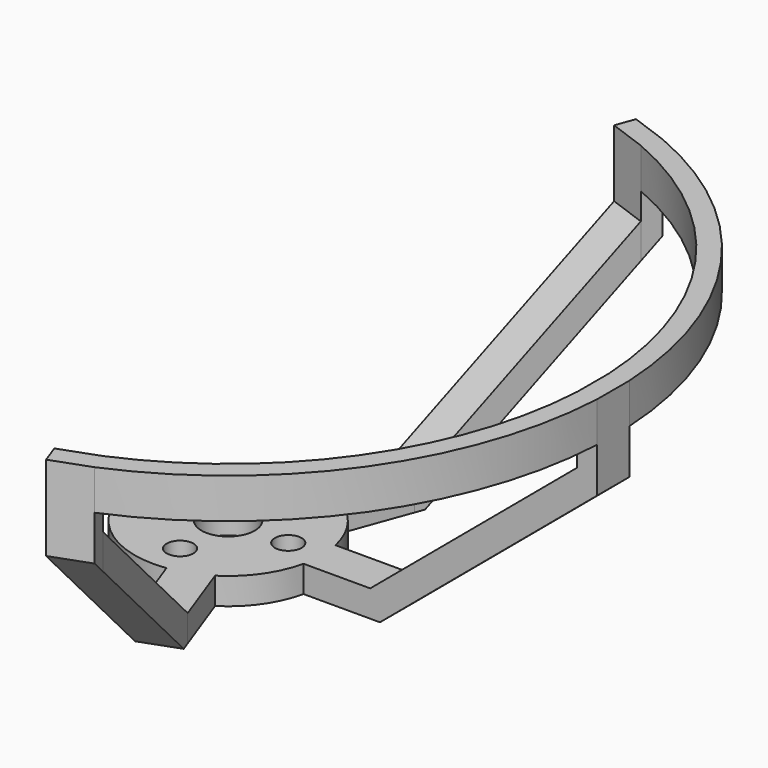
from build123d import *

# Parameters (mm, degrees)
F0_R     = 1
F0_R_2   = 2
F1_DEPTH = 2
F2_START = 17
F2_DEPTH = 3
F3_DEPTH = 20
F5_DEPTH = 3
F8_DEPTH = 3
F9_DEPTH = 3


with BuildPart() as f1:
    # F0 (on Top) → F1 (new body)
    with BuildSketch(Plane.XY):
        with BuildLine():
            Line((0.9289886274, 6.9380818769), (3.7480664897, 5.9120214469))
            ThreePointArc((3.7480664897, 5.9120214469), (2.3941410033, 6.5778483455), (0.9289886274, 6.9380818769))
        make_face()
        with BuildLine():
            Line((6.8373971656, -1.5), (6.8373971656, 1.5))
            ThreePointArc((6.8373971656, 1.5), (5.73406431, 4.0150350545), (3.7480664897, 5.9120214469))
            Line((3.7480664897, 5.9120214469), (0.9289886274, 6.9380818769))
            ThreePointArc((0.9289886274, 6.9380818769), (-7, 0), (0.9289886274, -6.9380818769))
            Line((0.9289886274, -6.9380818769), (3.7480664897, -5.9120214469))
            ThreePointArc((3.7480664897, -5.9120214469), (5.73406431, -4.0150350545), (6.8373971656, -1.5))
        make_face()
        with Locations((0, -4.5)):
            Circle(F0_R, mode=Mode.SUBTRACT)
        with Locations((-4.5, 0)):
            Circle(F0_R, mode=Mode.SUBTRACT)
        Circle(F0_R_2, mode=Mode.SUBTRACT)
        with Locations((0, 4.5)):
            Circle(F0_R, mode=Mode.SUBTRACT)
        with Locations((4.5, 0)):
            Circle(F0_R, mode=Mode.SUBTRACT)
        with BuildLine():
            ThreePointArc((6.8373971656, 1.5), (6.9592305666, 0.7543937436), (7, 0))
            ThreePointArc((7, 0), (6.9592305666, -0.7543937436), (6.8373971656, -1.5))
            Line((6.8373971656, -1.5), (11.8373971656, -1.5))
            Line((11.8373971656, -1.5), (11.8373971656, 1.5))
            Line((11.8373971656, 1.5), (6.8373971656, 1.5))
        make_face()
        with BuildLine():
            ThreePointArc((6.8373971656, -1.5), (6.9592305666, -0.7543937436), (7, 0))
            ThreePointArc((7, 0), (6.9592305666, 0.7543937436), (6.8373971656, 1.5))
            Line((6.8373971656, 1.5), (6.8373971656, -1.5))
        make_face()
        with BuildLine():
            ThreePointArc((0.9289886274, -6.9380818769), (2.3941410033, -6.5778483455), (3.7480664897, -5.9120214469))
            Line((3.7480664897, -5.9120214469), (0.9289886274, -6.9380818769))
        make_face()
        with BuildLine():
            Line((5.4581672064, -10.6104845508), (3.7480664897, -5.9120214469))
            ThreePointArc((3.7480664897, -5.9120214469), (2.3941410033, -6.5778483455), (0.9289886274, -6.9380818769))
            Line((0.9289886274, -6.9380818769), (2.639089344, -11.6365449808))
            Line((2.639089344, -11.6365449808), (5.4581672064, -10.6104845508))
        make_face()
        with BuildLine():
            ThreePointArc((0.9289886274, 6.9380818769), (2.3941410033, 6.5778483455), (3.7480664897, 5.9120214469))
            Line((3.7480664897, 5.9120214469), (5.4581672064, 10.6104845508))
            Line((5.4581672064, 10.6104845508), (2.639089344, 11.6365449808))
            Line((2.639089344, 11.6365449808), (0.9289886274, 6.9380818769))
        make_face()
    extrude(amount=F1_DEPTH)



with BuildPart() as f2:
    # F0 (on Top) → F2 (new body)
    with BuildSketch(Plane.XY.offset(F2_START)):
        with BuildLine():
            Line((28.8373971656, -1.5), (27.3373971656, -1.5))
            ThreePointArc((27.3373971656, -1.5), (22.4271695266, -15.7036731632), (10.7594794279, -25.175720173))
            Line((10.7594794279, -25.175720173), (11.2725096429, -26.5852591042))
            ThreePointArc((11.2725096429, -26.5852591042), (23.6541478842, -16.5628126584), (28.8373971656, -1.5))
        make_face()
        with BuildLine():
            Line((11.2725096429, -26.5852591042), (10.7594794279, -25.175720173))
            ThreePointArc((10.7594794279, -25.175720173), (9.3640048747, -25.727391949), (7.9404015655, -26.201780603))
            Line((7.9404015655, -26.201780603), (8.4534317805, -27.6113195342))
            Line((8.4534317805, -27.6113195342), (11.2725096429, -26.5852591042))
        make_face()
        with BuildLine():
            ThreePointArc((10.7594794279, 25.175720173), (22.4271695266, 15.7036731632), (27.3373971656, 1.5))
            Line((27.3373971656, 1.5), (28.8373971656, 1.5))
            ThreePointArc((28.8373971656, 1.5), (23.6541478842, 16.5628126584), (11.2725096429, 26.5852591042))
            Line((11.2725096429, 26.5852591042), (10.7594794279, 25.175720173))
        make_face()
        with BuildLine():
            ThreePointArc((7.9404015655, 26.201780603), (9.3640048747, 25.727391949), (10.7594794279, 25.175720173))
            Line((10.7594794279, 25.175720173), (11.2725096429, 26.5852591042))
            Line((11.2725096429, 26.5852591042), (8.4534317805, 27.6113195342))
            Line((8.4534317805, 27.6113195342), (7.9404015655, 26.201780603))
        make_face()
        with BuildLine():
            Line((28.8373971656, 1.5), (27.3373971656, 1.5))
            ThreePointArc((27.3373971656, 1.5), (27.3785186559, 0), (27.3373971656, -1.5))
            Line((27.3373971656, -1.5), (28.8373971656, -1.5))
            Line((28.8373971656, -1.5), (28.8373971656, 1.5))
        make_face()
    extrude(amount=F2_DEPTH)


with BuildPart() as f1_1:
    add(f1.part)

    add(f2.part)  # F3 merges F2
    # F0 (on Top) → F3 (join)
    with BuildSketch(Plane.XY):
        with BuildLine():
            Line((10.7594794279, -25.175720173), (5.4581672064, -10.6104845508))
            Line((5.4581672064, -10.6104845508), (2.639089344, -11.6365449808))
            Line((2.639089344, -11.6365449808), (7.9404015655, -26.201780603))
            ThreePointArc((7.9404015655, -26.201780603), (9.3640048747, -25.727391949), (10.7594794279, -25.175720173))
        make_face()
        with BuildLine():
            ThreePointArc((7.9404015655, 26.201780603), (9.3640048747, 25.727391949), (10.7594794279, 25.175720173))
            Line((10.7594794279, 25.175720173), (11.2725096429, 26.5852591042))
            Line((11.2725096429, 26.5852591042), (8.4534317805, 27.6113195342))
            Line((8.4534317805, 27.6113195342), (7.9404015655, 26.201780603))
        make_face()
        with BuildLine():
            Line((28.8373971656, 1.5), (27.3373971656, 1.5))
            ThreePointArc((27.3373971656, 1.5), (27.3785186559, 0), (27.3373971656, -1.5))
            Line((27.3373971656, -1.5), (28.8373971656, -1.5))
            Line((28.8373971656, -1.5), (28.8373971656, 1.5))
        make_face()
        with BuildLine():
            Line((11.2725096429, -26.5852591042), (10.7594794279, -25.175720173))
            ThreePointArc((10.7594794279, -25.175720173), (9.3640048747, -25.727391949), (7.9404015655, -26.201780603))
            Line((7.9404015655, -26.201780603), (8.4534317805, -27.6113195342))
            Line((8.4534317805, -27.6113195342), (11.2725096429, -26.5852591042))
        make_face()
        with BuildLine():
            Line((27.3373971656, 1.5), (11.8373971656, 1.5))
            Line((11.8373971656, 1.5), (11.8373971656, -1.5))
            Line((11.8373971656, -1.5), (27.3373971656, -1.5))
            ThreePointArc((27.3373971656, -1.5), (27.3785186559, 0), (27.3373971656, 1.5))
        make_face()
        with BuildLine():
            Line((2.639089344, 11.6365449808), (5.4581672064, 10.6104845508))
            Line((5.4581672064, 10.6104845508), (10.7594794279, 25.175720173))
            ThreePointArc((10.7594794279, 25.175720173), (9.3640048747, 25.727391949), (7.9404015655, 26.201780603))
            Line((7.9404015655, 26.201780603), (2.639089344, 11.6365449808))
        make_face()
    extrude(amount=F3_DEPTH)

    # F4 (on face) → F5 (cut)
    with BuildSketch(Plane(origin=(-1.4095389312, -0.513030215, 0), x_dir=(0.3420201433, -0.9396926208, 0), z_dir=(-0.9396926208, -0.3420201433, 0))):
        Polygon((27.3373971656, 15), (27.3373971656, 20), (11.8373971656, 20), (11.8373971656, 2), align=None)
        Polygon((28.8373971656, 0), (28.8373971656, 13.647751184), (12.5650784462, 0), align=None)
    extrude(amount=-F5_DEPTH, mode=Mode.SUBTRACT)

    # F6 (on face) → F8 (cut)
    with BuildSketch(Plane.XZ.offset(1.5)):
        Polygon((28.8373971656, 0), (28.8373971656, 13.647751184), (12.5650784462, 0), align=None)
        Polygon((27.3373971656, 17), (27.3373971656, 20), (11.8373971656, 20), (11.8373971656, 2), (27.3373971656, 15), align=None)
    extrude(amount=-F8_DEPTH, mode=Mode.SUBTRACT)

    # F7 (on face) → F9 (cut)
    with BuildSketch(Plane(origin=(1.4095389312, -0.513030215, 0), x_dir=(0.3420201433, 0.9396926208, 0), z_dir=(0.9396926208, -0.3420201433, 0))):
        Polygon((27.3373971656, 17), (27.3373971656, 20), (11.8373971656, 20), (11.8373971656, 2), (27.3373971656, 15), align=None)
        Polygon((28.8373971656, 0), (28.8373971656, 13.647751184), (12.5650784462, 0), align=None)
    extrude(amount=-F9_DEPTH, mode=Mode.SUBTRACT)


solid = f1_1.part
